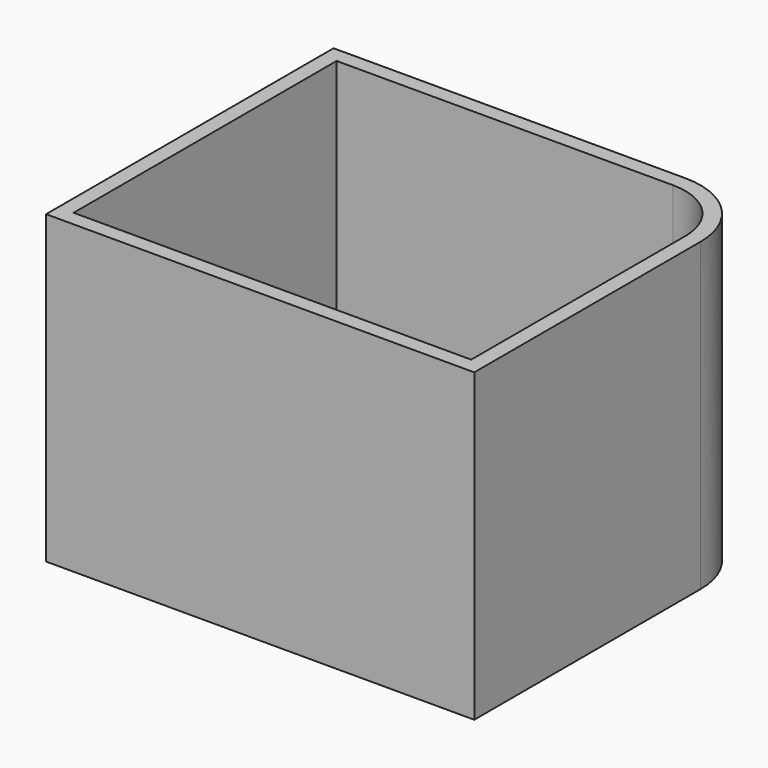
from build123d import *

# Parameters (mm, degrees)
PAD_DEPTH   = 20
THICKNESS_T = -1


with BuildPart() as part:
    # Sketch → Pad (new body)
    with BuildSketch(Plane.XY):
        with BuildLine():
            Line((-11.5, 14.25), (11.5, 14.25))
            ThreePointArc((16.5, 9.25), (15.035534, 12.785534), (11.5, 14.25))
            Line((16.5, 9.25), (16.5, -9.25))
            Line((16.5, -9.25), (-11.5, -9.25))
            Line((-11.5, -9.25), (-11.5, 14.25))
        make_face()
    extrude(amount=PAD_DEPTH)

    # Thickness
    thickness_openings = [part.faces().sort_by_distance(p)[0] for p in [
        (2.394093, 2.412589, 20),
    ]]
    offset(amount=THICKNESS_T, openings=thickness_openings)


solid = part.part
